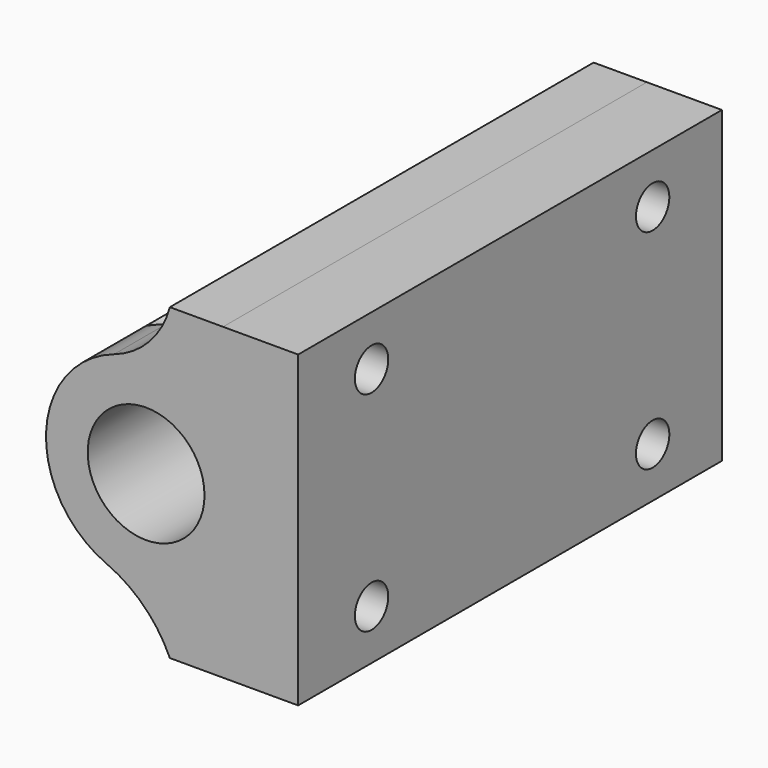
from build123d import *

# Parameters (mm, degrees)
F0_R     = 7
F1_DEPTH = 63.5
F2_R     = 2.5
F3_DEPTH = 25
F4_W     = 63.5
F4_H     = 37.032189
F4_R     = 2.5
F5_DEPTH = 9
F7_R     = 3.5
F8_DEPTH = 25


with BuildPart() as f1:
    # F0 (on Front) → F1 (new body)
    with BuildSketch(Plane.XZ):
        with BuildLine():
            Line((0, 0), (0, 37.032189))
            Line((0, 37.032189), (-6.381311, 37.032189))
            ThreePointArc((-6.381311, 37.032189), (-8.828094, 32.617323), (-13.071374, 29.88376))
            ThreePointArc((-13.071374, 29.88376), (-21.217592, 19.000967), (-13.976716, 7.495935))
            ThreePointArc((-13.976716, 7.495935), (-9.473946, 4.46239), (-6.381311, 0))
            Line((-6.381311, 0), (0, 0))
        make_face()
        with Locations((-9.227392, 18.516095)):
            Circle(F0_R, mode=Mode.SUBTRACT)
    extrude(amount=F1_DEPTH)

    # F2 (on face) → F3 (cut)
    with BuildSketch(Plane.YZ):
        with Locations((-52.5, 31.032189)):
            Circle(F2_R)
        with Locations((-10.37997, 31.032189)):
            Circle(F2_R)
        with Locations((-52.5, 6)):
            Circle(F2_R)
        with Locations((-10.37997, 6)):
            Circle(F2_R)
    extrude(amount=-F3_DEPTH, mode=Mode.SUBTRACT)

    # F4 (on face) → F5 (join)
    with BuildSketch(Plane.YZ):
        with Locations((-31.75, 18.516094)):
            Rectangle(F4_W, F4_H)
        with Locations((-52.5, 6)):
            Circle(F4_R, mode=Mode.SUBTRACT)
        with Locations((-10.37997, 6)):
            Circle(F4_R, mode=Mode.SUBTRACT)
        with Locations((-52.5, 31.032189)):
            Circle(F4_R, mode=Mode.SUBTRACT)
        with Locations((-10.37997, 31.032189)):
            Circle(F4_R, mode=Mode.SUBTRACT)
    extrude(amount=F5_DEPTH)

    # F7 (on offset) → F8 (cut)
    with BuildSketch(Plane.YZ.offset(4)):
        with Locations((-52.5, 6)):
            Circle(F7_R)
        with Locations((-52.5, 31.032189)):
            Circle(F7_R)
        with Locations((-10.37997, 6)):
            Circle(F7_R)
        with Locations((-10.37997, 31.032189)):
            Circle(F7_R)
    extrude(amount=-F8_DEPTH, mode=Mode.SUBTRACT)


solid = f1.part
